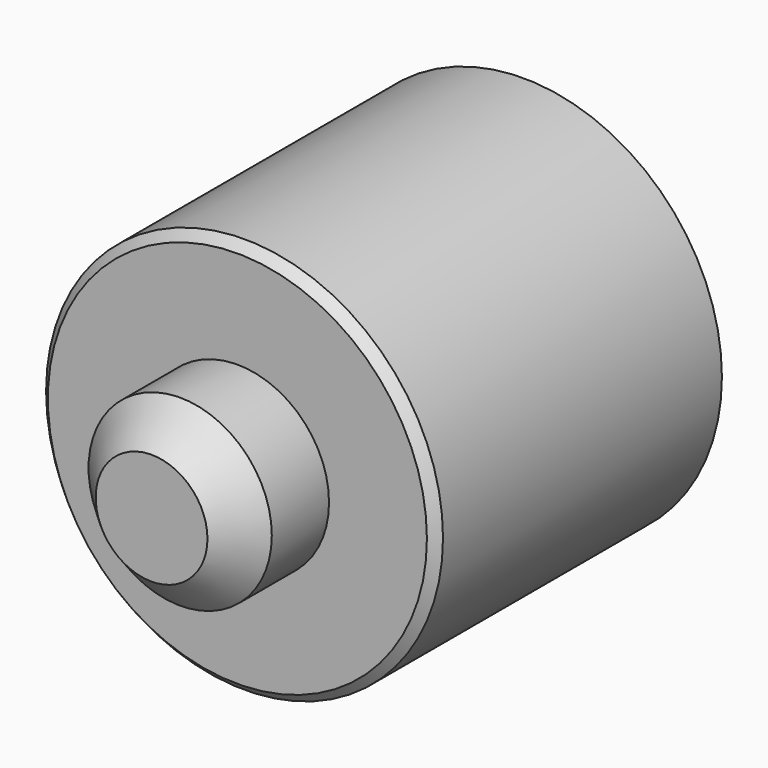
from build123d import *

# Parameters (mm, degrees)
F0_R     = 11.1
F1_DEPTH = 20
F2_R     = 5.125
F3_DEPTH = 6
F4_SIZE  = 2
F5_SIZE  = 0.5


with BuildPart() as f1:
    # F0 (on Front) → F1 (new body)
    with BuildSketch(Plane.XZ):
        Circle(F0_R)
    extrude(amount=F1_DEPTH)

    # F2 (on face) → F3 (join)
    with BuildSketch(Plane.XZ.offset(20)):
        Circle(F2_R)
    extrude(amount=F3_DEPTH)

    # F4
    f4_edges = [f1.edges().sort_by_distance(p)[0] for p in [
        (-5.125, -26, 0),
    ]]
    chamfer(f4_edges, length=F4_SIZE)

    # F5
    f5_edges = [f1.edges().sort_by_distance(p)[0] for p in [
        (-11.1, -20, 0),
    ]]
    chamfer(f5_edges, length=F5_SIZE)


solid = f1.part
